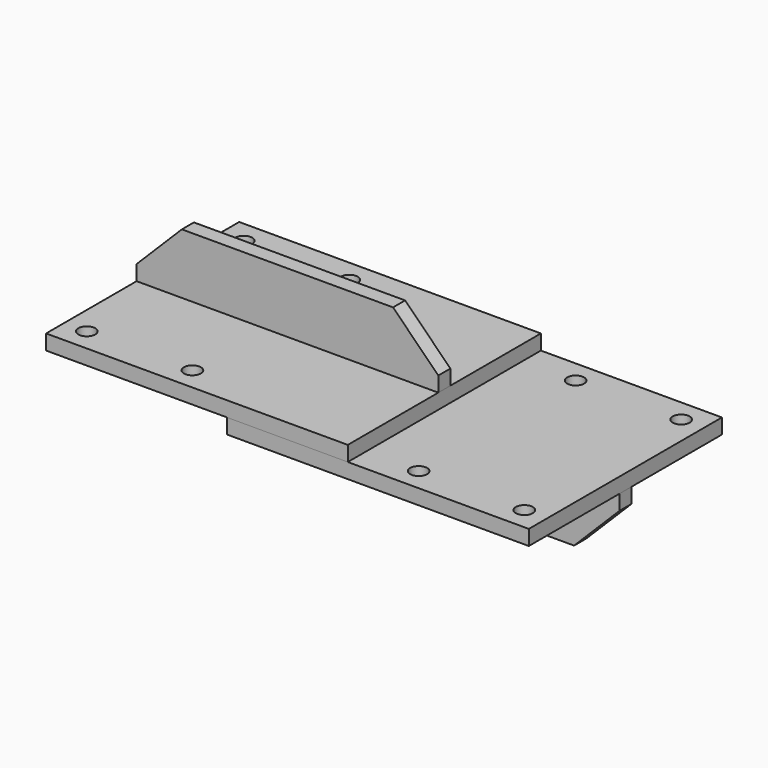
from build123d import *

# Parameters (mm, degrees)
F0_W     = 254
F0_H     = 203.2
F0_R     = 7.14375
F1_DEPTH = 12.7
F2_W     = 254
F2_H     = 203.2
F2_R     = 7.14375
F3_DEPTH = 12.7
F4_W     = 254
F4_H     = 12.7
F5_DEPTH = 50.8
F6_SIZE  = 38.1
F7_W     = 254
F7_H     = 12.7
F8_DEPTH = 50.8
F9_SIZE  = 38.1


with BuildPart() as f1:
    # F0 (on Top) → F1 (new body)
    with BuildSketch(Plane.XY):
        with Locations((-76.2, 0)):
            Rectangle(F0_W, F0_H)
        with Locations((-184.15, -82.55)):
            Circle(F0_R, mode=Mode.SUBTRACT)
        with Locations((-95.25, -82.55)):
            Circle(F0_R, mode=Mode.SUBTRACT)
        with Locations((-184.15, 82.55)):
            Circle(F0_R, mode=Mode.SUBTRACT)
        with Locations((-95.25, 82.55)):
            Circle(F0_R, mode=Mode.SUBTRACT)
    extrude(amount=F1_DEPTH)


with BuildPart() as f3:
    # F2 (on face) → F3 (new body)
    with BuildSketch(Plane(origin=(0, 0, 0), x_dir=(1, 0, 0), z_dir=(0, 0, -1))):
        with Locations((76.2, 0)):
            Rectangle(F2_W, F2_H)
        with Locations((95.25, -82.55)):
            Circle(F2_R, mode=Mode.SUBTRACT)
        with Locations((184.15, -82.55)):
            Circle(F2_R, mode=Mode.SUBTRACT)
        with Locations((95.25, 82.55)):
            Circle(F2_R, mode=Mode.SUBTRACT)
        with Locations((184.15, 82.55)):
            Circle(F2_R, mode=Mode.SUBTRACT)
    extrude(amount=F3_DEPTH)


with BuildPart() as f5:
    # F4 (on face) → F5 (new body)
    with BuildSketch(Plane.XY.offset(12.7)):
        with Locations((-76.2, 0)):
            Rectangle(F4_W, F4_H)
    extrude(amount=F5_DEPTH)

    # F6
    f6_edges = [f5.edges().sort_by_distance(p)[0] for p in [
        (-203.2, 0, 63.5),
        (50.8, 0, 63.5),
    ]]
    chamfer(f6_edges, length=F6_SIZE)


with BuildPart() as f8:
    # F7 (on face) → F8 (new body)
    with BuildSketch(Plane(origin=(0, 0, -12.7), x_dir=(1, 0, 0), z_dir=(0, 0, -1))):
        with Locations((76.2, 0)):
            Rectangle(F7_W, F7_H)
    extrude(amount=F8_DEPTH)

    # F9
    f9_edges = [f8.edges().sort_by_distance(p)[0] for p in [
        (203.2, 0, -63.5),
        (-50.8, 0, -63.5),
    ]]
    chamfer(f9_edges, length=F9_SIZE)


solid = Compound([f1.part, f3.part, f5.part, f8.part])
